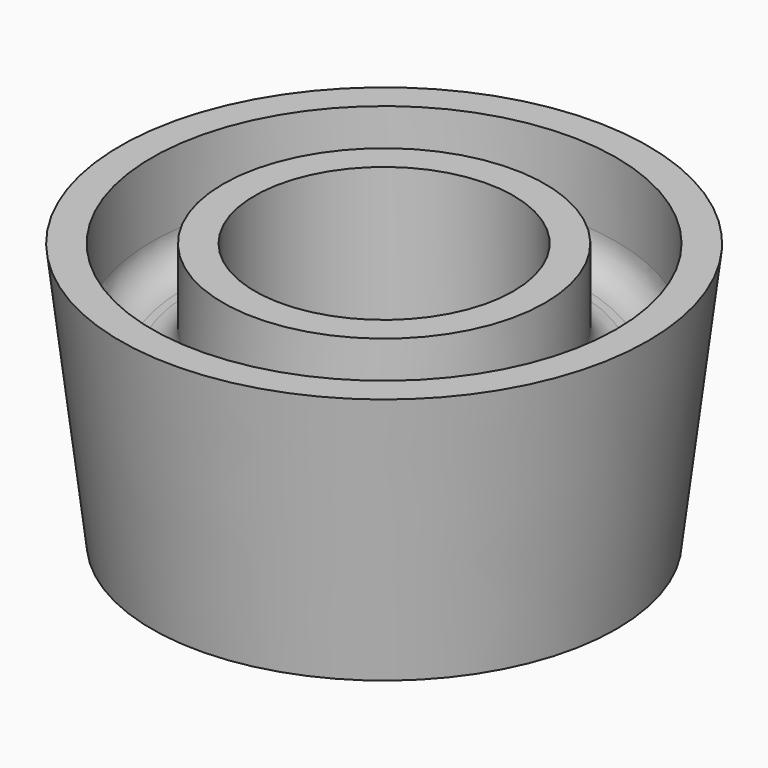
from build123d import *

# Parameters (mm, degrees)
F0_R     = 22
F2_R     = 25
F4_R     = 12.25
F5_DEPTH = 25.001
F4_R_2   = 22
F4_R_3   = 15.25
F6_DEPTH = 10
F7_R     = 3


with BuildPart() as f3:
    # F0 (on Top) → F3 section 0
    with BuildSketch(Plane.XY):
        Circle(F0_R)
    # F2 (on offset) → F3 section 1
    with BuildSketch(Plane.XY.offset(25)):
        Circle(F2_R)
    loft()

    # F4 (on offset) → F5 (cut, through all)
    with BuildSketch(Plane.XY.offset(25)):
        Circle(F4_R)
    extrude(amount=-F5_DEPTH, mode=Mode.SUBTRACT)

    # F4 (on offset) → F6 (cut)
    with BuildSketch(Plane.XY.offset(25)):
        Circle(F4_R_2)
        Circle(F4_R_3, mode=Mode.SUBTRACT)
    extrude(amount=-F6_DEPTH, mode=Mode.SUBTRACT)

    # F7
    f7_edges = [f3.edges().sort_by_distance(p)[0] for p in [
        (-22, 0, 15),
        (-15.25, 0, 15),
    ]]
    fillet(f7_edges, radius=F7_R)


solid = f3.part
